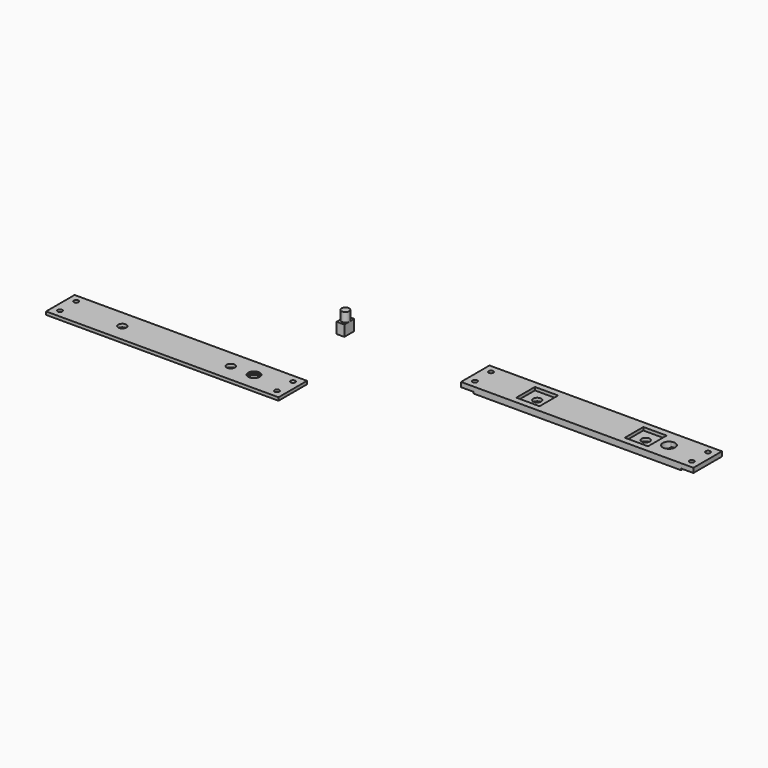
from build123d import *

# Parameters (mm, degrees)
F1_W      = 5
F1_H      = 8
F2_DEPTH  = 7
F4_DEPTH  = 6
F0_W      = 150
F0_H      = 23
F0_R      = 1.5
F0_R_2    = 2.6
F5_DEPTH  = 4
F6_W      = 150
F6_H      = 23
F6_R      = 1.5
F6_R_2    = 2.6
F6_R_3    = 3.1
F7_DEPTH  = 2
F8_R      = 3.75
F9_DEPTH  = 1
F10_W     = 8
F10_H     = 1
F11_DEPTH = 30
F12_W     = 15
F12_H     = 15
F12_R     = 2.6
F13_DEPTH = 2
F14_R     = 4
F15_DEPTH = 3


with BuildPart() as f2:
    # F1 (on Top) → F2 (new body)
    with BuildSketch(Plane.XY):
        with Locations((-158.881617, 0.106313)):
            Rectangle(F1_W, F1_H)
    extrude(amount=F2_DEPTH)

    # F3 (on face) → F4 (join)
    with BuildSketch(Plane.XY.offset(7)):
        with BuildLine():
            ThreePointArc((-161.381617, 0.106313), (-158.881617, -2.393687), (-156.381617, 0.106313))
            ThreePointArc((-156.381617, 0.106313), (-158.881617, 2.606313), (-161.381617, 0.106313))
        make_face()
    extrude(amount=F4_DEPTH)


with BuildPart() as f5:
    # F0 (on Top) → F5 (new body)
    with BuildSketch(Plane.XY):
        Rectangle(F0_W, F0_H)
        with Locations((-70, -6.5)):
            Circle(F0_R, mode=Mode.SUBTRACT)
        with Locations((70, -6.5)):
            Circle(F0_R, mode=Mode.SUBTRACT)
        with Locations((-35, 0)):
            Circle(F0_R_2, mode=Mode.SUBTRACT)
        with Locations((-70, 6.5)):
            Circle(F0_R, mode=Mode.SUBTRACT)
        with Locations((35, 0)):
            Circle(F0_R_2, mode=Mode.SUBTRACT)
        with BuildLine():
            ThreePointArc((51.5, 3.708099), (53.316625, 2.236068), (54, 0))
            ThreePointArc((54, 0), (53.316625, -2.236068), (51.5, -3.708099))
            ThreePointArc((51.5, -3.708099), (50, -4), (48.5, -3.708099))
            ThreePointArc((48.5, -3.708099), (46, 0), (48.5, 3.708099))
            ThreePointArc((48.5, 3.708099), (50, 4), (51.5, 3.708099))
        make_face(mode=Mode.SUBTRACT)
        with Locations((70, 6.5)):
            Circle(F0_R, mode=Mode.SUBTRACT)
        with BuildLine():
            Line((51.5, -3.708099), (51.5, 3.708099))
            ThreePointArc((51.5, 3.708099), (50, 4), (48.5, 3.708099))
            Line((48.5, 3.708099), (48.5, -3.708099))
            ThreePointArc((48.5, -3.708099), (50, -4), (51.5, -3.708099))
        make_face()
    extrude(amount=F5_DEPTH)

    # F10 (on face) → F11 (cut)
    with BuildSketch(Plane.XZ.offset(11.5)):
        with Locations((-71, 0.5)):
            Rectangle(F10_W, F10_H)
        with Locations((71, 0.5)):
            Rectangle(F10_W, F10_H)
    extrude(amount=-F11_DEPTH, mode=Mode.SUBTRACT)

    # F12 (on face) → F13 (cut)
    with BuildSketch(Plane.XY.offset(4)):
        with Locations((-35, 0)):
            Rectangle(F12_W, F12_H)
        with Locations((-35, 0)):
            Circle(F12_R, mode=Mode.SUBTRACT)
        with Locations((35, 0)):
            Rectangle(F12_W, F12_H)
        with Locations((35, 0)):
            Circle(F12_R, mode=Mode.SUBTRACT)
    extrude(amount=-F13_DEPTH, mode=Mode.SUBTRACT)

    # F14 (on face) → F15 (cut)
    with BuildSketch(Plane.XY.offset(4)):
        with Locations((50, 0)):
            Circle(F14_R)
    extrude(amount=-F15_DEPTH, mode=Mode.SUBTRACT)


with BuildPart() as f7:
    # F6 (on Top) → F7 (new body)
    with BuildSketch(Plane.XY):
        with Locations((-213.741779, -67.548528)):
            Rectangle(F6_W, F6_H)
        with Locations((-283.741779, -74.048528)):
            Circle(F6_R, mode=Mode.SUBTRACT)
        with Locations((-143.741779, -74.048528)):
            Circle(F6_R, mode=Mode.SUBTRACT)
        with Locations((-248.741779, -67.548528)):
            Circle(F6_R_2, mode=Mode.SUBTRACT)
        with Locations((-283.741779, -61.048528)):
            Circle(F6_R, mode=Mode.SUBTRACT)
        with Locations((-178.741779, -67.548528)):
            Circle(F6_R_2, mode=Mode.SUBTRACT)
        with Locations((-163.741779, -67.548528)):
            Circle(F6_R_3, mode=Mode.SUBTRACT)
        with Locations((-143.741779, -61.048528)):
            Circle(F6_R, mode=Mode.SUBTRACT)
    extrude(amount=F7_DEPTH)

    # F8 (on face) → F9 (cut)
    with BuildSketch(Plane.XY.offset(2)):
        with Locations((-163.741779, -67.548528)):
            Circle(F8_R)
    extrude(amount=-F9_DEPTH, mode=Mode.SUBTRACT)


solid = Compound([f2.part, f5.part, f7.part])
